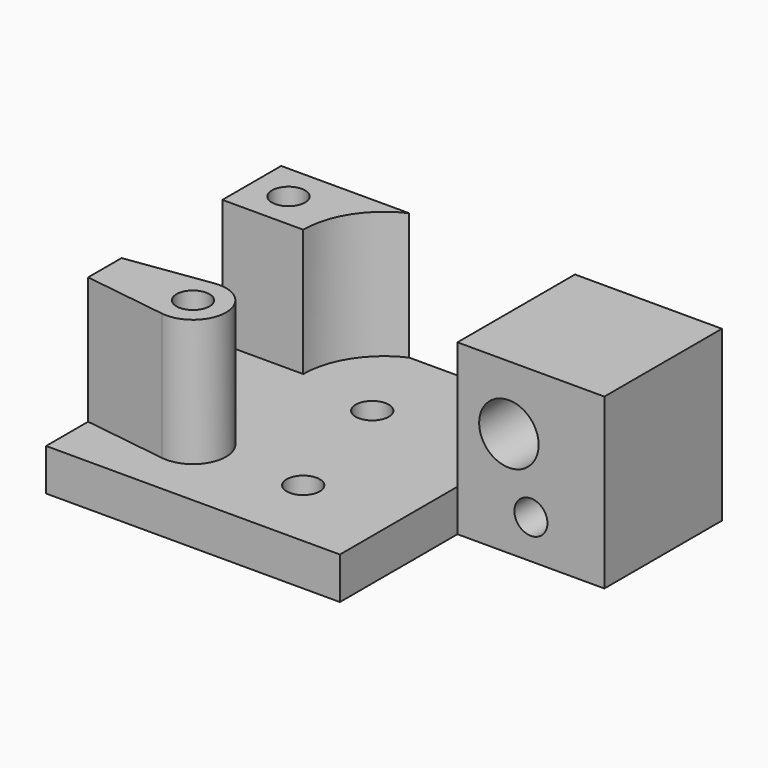
from build123d import *

# Parameters (mm, degrees)
SKETCH_R        = 2.25
PAD_DEPTH       = 23
POCKET_DEPTH    = 17.3
SKETCH002_R     = 4.05
SKETCH002_R_2   = 2.25
POCKET001_DEPTH = 20.001
SKETCH003_R     = 2.25
POCKET002_DEPTH = 10
SKETCH004_R     = 3.75
POCKET003_DEPTH = 10
SKETCH005_R     = 3.75
POCKET004_DEPTH = 9.2


with BuildPart() as pocket004:
    # Sketch → Pad (new body)
    with BuildSketch(Plane.XY):
        Polygon((0, -20), (40, -20), (40, 20), (-20, 20), (-20, 0), (0, 0), align=None)
        with Locations((18, 8)):
            Circle(SKETCH_R, mode=Mode.SUBTRACT)
        with Locations((13, -10)):
            Circle(SKETCH_R, mode=Mode.SUBTRACT)
        with Locations((28, -10)):
            Circle(SKETCH_R, mode=Mode.SUBTRACT)
    extrude(amount=PAD_DEPTH)

    # Sketch001 → Pocket (cut)
    with BuildSketch(Plane.XY.offset(23)):
        with BuildLine():
            Line((46, 10), (29, 10))
            ThreePointArc((29, 10), (25.778159, 17.77819), (17.999956, 21))
            Line((17.999956, 21), (0, 21))
            Line((0, 21), (0, -23))
            Line((0, -23), (46, -23))
            Line((46, -23), (46, -12))
            Line((28.629923, -14.455693), (46, -12))
            ThreePointArc((28.629923, -5.544307), (23.5, -10), (28.629923, -14.455693))
            Line((28.629923, -5.544307), (46, -8))
            Line((46, -8), (46, 10))
        make_face()
    extrude(amount=-POCKET_DEPTH, mode=Mode.SUBTRACT)

    # Sketch002 → Pocket001 (cut, through all)
    with BuildSketch(Plane.XZ):
        with Locations((-7, 14.3)):
            Circle(SKETCH002_R)
        with Locations((-10, 5.3)):
            Circle(SKETCH002_R_2)
    extrude(amount=-POCKET001_DEPTH, mode=Mode.SUBTRACT)

    # Sketch003 → Pocket002 (cut)
    with BuildSketch(Plane.XY.offset(23)):
        with Locations((35, 15)):
            Circle(SKETCH003_R)
    extrude(amount=-POCKET002_DEPTH, mode=Mode.SUBTRACT)

    # Sketch004 → Pocket003 (cut)
    with BuildSketch(Plane(origin=(0, 20, 0), x_dir=(-1, 0, 0), z_dir=(0, 1, 0))):
        with Locations((10, 5.3)):
            Circle(SKETCH004_R)
    extrude(amount=-POCKET003_DEPTH, mode=Mode.SUBTRACT)

    # Sketch005 → Pocket004 (cut)
    with BuildSketch(Plane(origin=(0, 0, 0), x_dir=(1, 0, 0), z_dir=(0, 0, -1))):
        with Locations((28, 10)):
            Circle(SKETCH005_R)
    extrude(amount=-POCKET004_DEPTH, mode=Mode.SUBTRACT)


with BuildPart() as part_mirroring:
    # Part__Mirroring: instance of Pocket004
    add(pocket004.part.mirror(Plane(origin=(0, 0, 0), x_dir=(0, -1, 0), z_dir=(1, 0, 0))))


solid = part_mirroring.part
